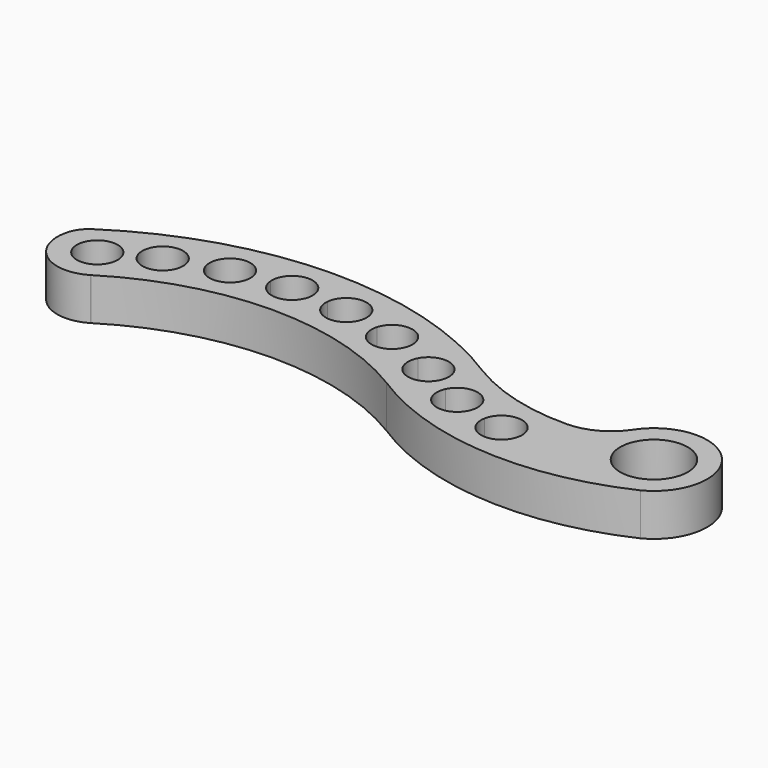
from build123d import *

# Parameters (mm, degrees)
F1_DEPTH = 30


with BuildPart() as f1:
    # F0 (on Top) → F1 (new body)
    with BuildSketch(Plane.XY):
        with BuildLine():
            ThreePointArc((-0.370418, -0.231047), (103.705225, 29.995782), (208.165857, 1.12751))
            ThreePointArc((208.165857, 1.12751), (301.836111, -29.765036), (398.823261, -11.821837))
            ThreePointArc((398.823261, -11.821837), (409.696224, 46.859597), (350.16635, 42.62568))
            ThreePointArc((350.16635, 42.62568), (336.020723, 29.673077), (317.471657, 24.794466))
            ThreePointArc((317.471657, 24.794466), (277.875465, 29.73633), (241.163355, 45.37287))
            ThreePointArc((241.163355, 45.37287), (103.045842, 84.992475), (-34.445075, 43.250315))
            ThreePointArc((-34.445075, 43.250315), (-39.438708, 38.561732), (-42.557406, 32.463134))
            ThreePointArc((-42.557406, 32.463134), (-32.951946, 1.619954), (-0.713459, -0.440775))
            ThreePointArc((-0.713459, -0.440775), (-0.541412, -0.336773), (-0.370418, -0.231047))
        make_face()
        with BuildLine():
            ThreePointArc((-0.297142, 23.181517), (-28.798646, 19.41218), (-2.256853, 30.461019))
            ThreePointArc((-2.256853, 30.461019), (-0.795639, 26.950854), (-0.297142, 23.181517))
        make_face(mode=Mode.SUBTRACT)
        with BuildLine():
            ThreePointArc((306.025151, -2.470311), (289.585016, -15.432723), (277.330231, 1.541447))
            ThreePointArc((277.330231, 1.541447), (292.904997, 13.368106), (306.092695, -1.072388))
            ThreePointArc((306.092695, -1.072388), (306.075799, -1.772165), (306.025151, -2.470311))
        make_face(mode=Mode.SUBTRACT)
        with BuildLine():
            ThreePointArc((265.268168, 4.750924), (246.198154, -3.888334), (238.373985, 15.530332))
            ThreePointArc((238.373985, 15.530332), (254.64054, 23.746883), (266.092695, 9.570824))
            ThreePointArc((266.092695, 9.570824), (265.885077, 7.125866), (265.268168, 4.750924))
        make_face(mode=Mode.SUBTRACT)
        with BuildLine():
            ThreePointArc((405.568481, 21.723297), (390.866892, -0.402244), (364.773518, 4.578933))
            ThreePointArc((364.773518, 4.578933), (371.694676, 43.598122), (405.535659, 22.97805))
            ThreePointArc((405.535659, 22.97805), (405.560274, 22.350888), (405.568481, 21.723297))
        make_face(mode=Mode.SUBTRACT)
        with BuildLine():
            ThreePointArc((4.885279, 34.14432), (12.517284, 53.528001), (31.646449, 45.278781))
            ThreePointArc((31.646449, 45.278781), (32.350204, 42.752382), (32.587375, 40.140541))
            ThreePointArc((32.587375, 40.140541), (21.154916, 25.968731), (4.885279, 34.14432))
        make_face(mode=Mode.SUBTRACT)
        with BuildLine():
            ThreePointArc((42.1803, 48.603969), (53.106563, 66.340692), (70.484055, 54.851682))
            ThreePointArc((70.484055, 54.851682), (70.669899, 53.522357), (70.732024, 52.181544))
            ThreePointArc((70.732024, 52.181544), (58.0348, 37.794049), (42.1803, 48.603969))
        make_face(mode=Mode.SUBTRACT)
        with BuildLine():
            ThreePointArc((190.732024, 45.994176), (190.507602, 43.452937), (189.84128, 40.990362))
            ThreePointArc((189.84128, 40.990362), (171.666878, 32.231566), (162.330196, 50.115966))
            ThreePointArc((162.330196, 50.115966), (178.314509, 60.343854), (190.732024, 45.994176))
        make_face(mode=Mode.SUBTRACT)
        with BuildLine():
            ThreePointArc((150.732024, 55.333965), (150.679346, 54.099091), (150.521692, 52.873189))
            ThreePointArc((150.521692, 52.873189), (134.230414, 40.972782), (121.814077, 56.874354))
            ThreePointArc((121.814077, 56.874354), (137.003311, 69.813437), (150.732024, 55.333965))
        make_face(mode=Mode.SUBTRACT)
        with BuildLine():
            ThreePointArc((81.768364, 56.304113), (95.670099, 71.819149), (110.731698, 57.427386))
            ThreePointArc((110.731698, 57.427386), (110.731943, 57.378714), (110.732024, 57.330041))
            ThreePointArc((110.732024, 57.330041), (96.745311, 42.839129), (81.768364, 56.304113))
        make_face(mode=Mode.SUBTRACT)
        with BuildLine():
            ThreePointArc((228.666626, 20.810435), (209.139499, 15.622053), (203.383442, 34.989444))
            ThreePointArc((203.383442, 34.989444), (219.692194, 42.350127), (230.732024, 28.269033))
            ThreePointArc((230.732024, 28.269033), (230.206138, 24.39939), (228.666626, 20.810435))
        make_face(mode=Mode.SUBTRACT)
    extrude(amount=F1_DEPTH)


solid = f1.part
